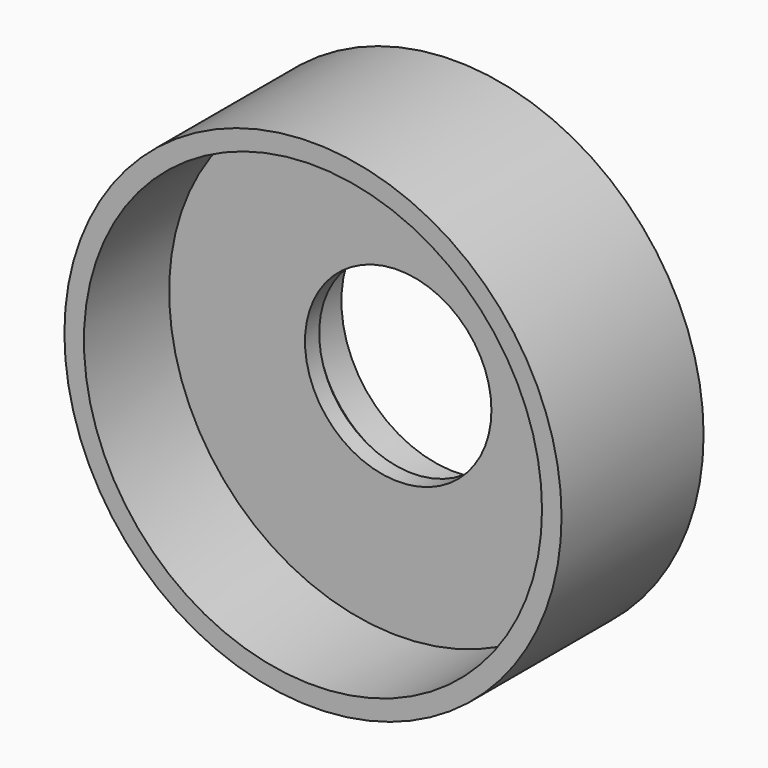
from build123d import *

# Parameters (mm, degrees)
F1_W     = 7.6
F1_H     = 2
F3_R     = 12.9
F3_R_2   = 5.25
F4_DEPTH = 6
F5_SIZE  = 1


with BuildPart() as f2:
    # F1 (on Top) → F2 (revolve)
    with BuildSketch(Plane.XY):
        with Locations((10.2, 19.389948)):
            Rectangle(F1_W, F1_H)
        Polygon((5.25, 18.389948), (5.25, 10.389948), (14, 10.389948), (14, 18.389948), (6.4, 18.389948), align=None)
    revolve(axis=Axis((0, 1.251986, 0), (0, -1, 0)))

    # F3 (on face) → F4 (cut)
    with BuildSketch(Plane.XZ.offset(-10.389948)):
        Circle(F3_R)
        Circle(F3_R_2, mode=Mode.SUBTRACT)
    extrude(amount=-F4_DEPTH, mode=Mode.SUBTRACT)

    # F5
    f5_edges = [f2.edges().sort_by_distance(p)[0] for p in [
        (-5.25, 18.389948, 0),
    ]]
    chamfer(f5_edges, length=F5_SIZE)


solid = f2.part
